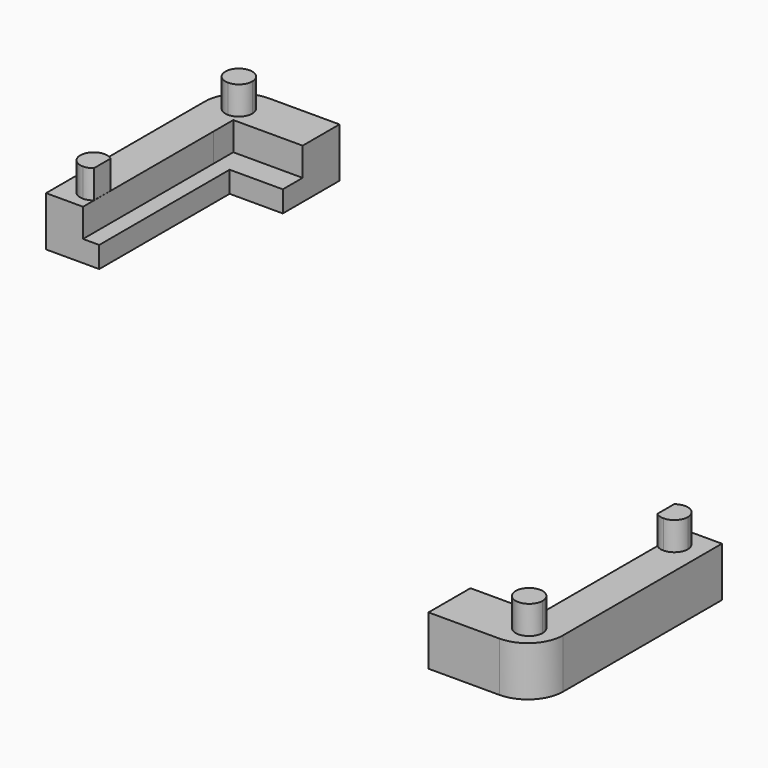
from build123d import *

# Parameters (mm, degrees)
F1_W     = 7.5
F1_H     = 6.5
F1_W_2   = 5.2125635985
F1_H_2   = 10
F1_W_3   = 2.2874364015
F1_H_3   = 13
F2_DEPTH = 3
F1_W_4   = 5.20036304
F1_W_5   = 2.29963696
F3_DEPTH = 7
F4_DEPTH = 11
F5_R     = 5
F5_2_R   = 5


with BuildPart() as f2:
    # F1 (on Top) → F2 (new body)
    with BuildSketch(Plane.XY):
        Polygon((3.5, 4), (0, 4), (-4, 4), (-4, -6), (1.2125635985, -6), (1.2125635985, -3.4049407113), (1.2125635985, -2.5), (3.5, -2.5), align=None)
        with Locations((7.25, 0.75)):
            Rectangle(F1_W, F1_H)
        with Locations((-1.3937182007, -11)):
            Rectangle(F1_W_2, F1_H_2)
        Polygon((11, -2.5), (3.5, -2.5), (1.2125635985, -2.5), (1.2125635985, -3.4049407113), (1.2125635985, -6), (3.5, -6), (11, -6), align=None)
        with Locations((2.3562817993, -11)):
            Rectangle(F1_W_3, F1_H_2)
        with Locations((-1.3937182007, -22.5)):
            Rectangle(F1_W_2, F1_H_3)
        with Locations((2.3562817993, -22.5)):
            Rectangle(F1_W_3, F1_H_3)
    extrude(amount=F2_DEPTH)

    # F1 (on Top) → F3 (join)
    with BuildSketch(Plane.XY):
        with Locations((-1.3937182007, -11)):
            Rectangle(F1_W_2, F1_H_2)
        with Locations((7.25, 0.75)):
            Rectangle(F1_W, F1_H)
        Polygon((3.5, 4), (0, 4), (-4, 4), (-4, -6), (1.2125635985, -6), (1.2125635985, -3.4049407113), (1.2125635985, -2.5), (3.5, -2.5), align=None)
        with Locations((-1.3937182007, -22.5)):
            Rectangle(F1_W_2, F1_H_3)
    extrude(amount=F3_DEPTH)

    # F0 (on Top) → F4, piece 2 (join)
    with BuildSketch(Plane.XY):
        with BuildLine():
            ThreePointArc((0, -1.9), (1.3435028843, -1.3435028843), (1.9, 0))
            ThreePointArc((1.9, 0), (-1.3435028843, 1.3435028843), (0, -1.9))
        make_face()
        with BuildLine():
            ThreePointArc((1.2, -24.1269080137), (0.6368379802, -23.8099057603), (0, -23.7))
            Line((0, -23.7), (0, -25.6))
            Line((0, -25.6), (0, -27.5))
            ThreePointArc((0, -27.5), (0.6368379802, -27.3900942397), (1.2, -27.0730919863))
            Line((1.2, -27.0730919863), (1.2, -24.1269080137))
        make_face()
        with BuildLine():
            Line((0, -25.6), (0, -23.7))
            ThreePointArc((0, -23.7), (-1.3435028843, -24.2564971157), (-1.9, -25.6))
            Line((-1.9, -25.6), (0, -25.6))
        make_face()
        with BuildLine():
            Line((0, -27.5), (0, -25.6))
            Line((0, -25.6), (-1.9, -25.6))
            ThreePointArc((-1.9, -25.6), (-1.3435028843, -26.9435028843), (0, -27.5))
        make_face()
    extrude(amount=F4_DEPTH)

    # F5
    f5_edges = [f2.edges().sort_by_distance(p)[0] for p in [
        (-4, 4, 3.5),
    ]]
    fillet(f5_edges, radius=F5_R)


with BuildPart() as f2b:
    # F1 (on Top) → F2, piece 2 (new body)
    with BuildSketch(Plane.XY):
        Polygon((106.3998335004, -80.7989978194), (106.3998335004, -76.7989978194), (106.3998335004, -70.7989978194), (106.3998335004, -60.7989978194), (101.1994704604, -60.7989978194), (101.1994704604, -70.7989978194), (101.1994704604, -73.3985826373), (98.8998335004, -73.3985826373), (91.3998335004, -73.3985826373), (91.3998335004, -80.7989978194), (98.8998335004, -80.7989978194), align=None)
        with Locations((103.7996519804, -54.2989978194)):
            Rectangle(F1_W_4, F1_H_3)
        Polygon((101.1994704604, -70.7989978194), (101.1994704604, -60.7989978194), (98.8998335004, -60.7989978194), (98.8998335004, -70.7989978194), (91.3998335004, -70.7989978194), (91.3998335004, -73.3985826373), (98.8998335004, -73.3985826373), (101.1994704604, -73.3985826373), align=None)
        with Locations((100.0496519804, -54.2989978194)):
            Rectangle(F1_W_5, F1_H_3)
    extrude(amount=F2_DEPTH)

    # F1 (on Top) → F3, piece 2 (join)
    with BuildSketch(Plane.XY):
        Polygon((106.3998335004, -80.7989978194), (106.3998335004, -76.7989978194), (106.3998335004, -70.7989978194), (106.3998335004, -60.7989978194), (101.1994704604, -60.7989978194), (101.1994704604, -70.7989978194), (101.1994704604, -73.3985826373), (98.8998335004, -73.3985826373), (91.3998335004, -73.3985826373), (91.3998335004, -80.7989978194), (98.8998335004, -80.7989978194), align=None)
        with Locations((103.7996519804, -54.2989978194)):
            Rectangle(F1_W_4, F1_H_3)
    extrude(amount=F3_DEPTH)

    # F0 (on Top) → F4 (join)
    with BuildSketch(Plane.XY):
        with BuildLine():
            ThreePointArc((104.3, -76.8), (103.7435028843, -75.4564971157), (102.4, -74.9))
            ThreePointArc((102.4, -74.9), (101.0564971157, -75.4564971157), (100.5, -76.8))
            ThreePointArc((100.5, -76.8), (102.4, -78.7), (104.3, -76.8))
        make_face()
        with BuildLine():
            ThreePointArc((104.3, -51.2), (103.7435028843, -49.8564971157), (102.4, -49.3))
            Line((102.4, -49.3), (102.4, -53.1))
            ThreePointArc((102.4, -53.1), (103.7435028843, -52.5435028843), (104.3, -51.2))
        make_face()
        with BuildLine():
            ThreePointArc((102.4, -49.3), (101.7631620198, -49.4099057603), (101.2, -49.7269080137))
            Line((101.2, -49.7269080137), (101.2, -52.6730919863))
            ThreePointArc((101.2, -52.6730919863), (101.7631620198, -52.9900942397), (102.4, -53.1))
            Line((102.4, -53.1), (102.4, -49.3))
        make_face()
    extrude(amount=F4_DEPTH)

    # F5#2
    f5_2_edges = [f2b.edges().sort_by_distance(p)[0] for p in [
        (106.399834, -80.798998, 3.5),
    ]]
    fillet(f5_2_edges, radius=F5_2_R)


solid = Compound([f2.part, f2b.part])
